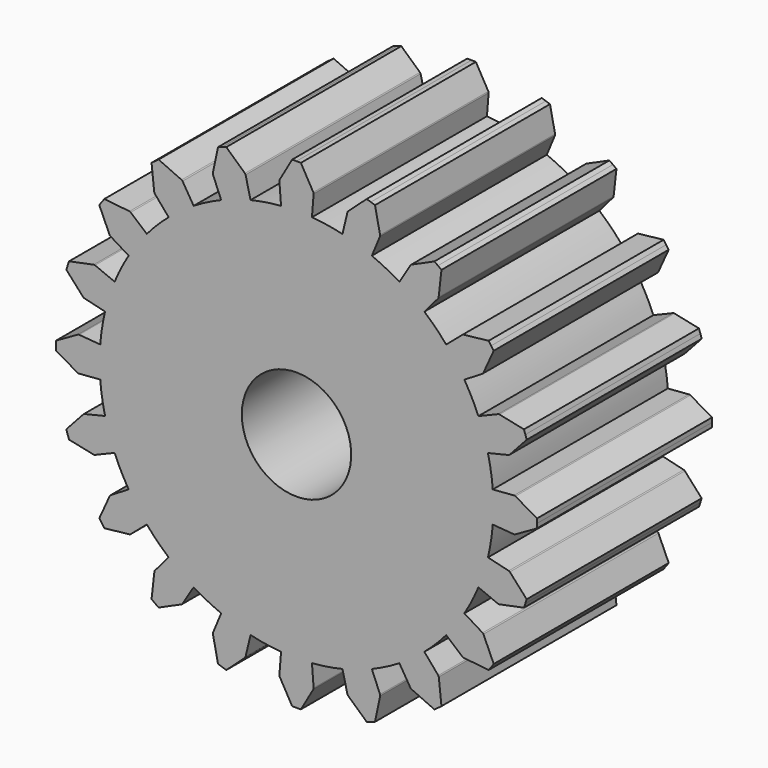
from build123d import *

# Parameters (mm, degrees)
F1_DEPTH = 5
F2_D     = 2.5


with BuildPart() as f1:
    # F0 (on Front) → F1 (new body)
    with BuildSketch(Plane.XZ):
        with BuildLine():
            ThreePointArc((4.486128, -0.353066), (4.496531, -0.176669), (4.5, 0))
            ThreePointArc((4.5, 0), (4.496531, 0.176669), (4.486128, 0.353066))
            ThreePointArc((4.486128, 0.353066), (4.444598, 0.703955), (4.375665, 1.050504))
            ThreePointArc((4.375665, 1.050504), (4.279754, 1.390576), (4.157458, 1.722075))
            ThreePointArc((4.157458, 1.722075), (4.009529, 2.042957), (3.836881, 2.351244))
            ThreePointArc((3.836881, 2.351244), (3.640576, 2.645034), (3.421827, 2.922516))
            ThreePointArc((3.421827, 2.922516), (3.181981, 3.181981), (2.922516, 3.421827))
            ThreePointArc((2.922516, 3.421827), (2.645034, 3.640576), (2.351244, 3.836881))
            ThreePointArc((2.351244, 3.836881), (2.042957, 4.009529), (1.722075, 4.157458))
            ThreePointArc((1.722075, 4.157458), (1.390576, 4.279754), (1.050504, 4.375665))
            ThreePointArc((1.050504, 4.375665), (0.703955, 4.444598), (0.353066, 4.486128))
            ThreePointArc((0.353066, 4.486128), (0, 4.5), (-0.353066, 4.486128))
            ThreePointArc((-0.353066, 4.486128), (-0.703955, 4.444598), (-1.050504, 4.375665))
            ThreePointArc((-1.050504, 4.375665), (-1.390576, 4.279754), (-1.722075, 4.157458))
            ThreePointArc((-1.722075, 4.157458), (-2.042957, 4.009529), (-2.351244, 3.836881))
            ThreePointArc((-2.351244, 3.836881), (-2.645034, 3.640576), (-2.922516, 3.421827))
            ThreePointArc((-2.922516, 3.421827), (-3.181981, 3.181981), (-3.421827, 2.922516))
            ThreePointArc((-3.421827, 2.922516), (-3.640576, 2.645034), (-3.836881, 2.351244))
            ThreePointArc((-3.836881, 2.351244), (-4.009529, 2.042957), (-4.157458, 1.722075))
            ThreePointArc((-4.157458, 1.722075), (-4.279754, 1.390576), (-4.375665, 1.050504))
            ThreePointArc((-4.375665, 1.050504), (-4.444598, 0.703955), (-4.486128, 0.353066))
            ThreePointArc((-4.486128, 0.353066), (-4.5, 0), (-4.486128, -0.353066))
            ThreePointArc((-4.486128, -0.353066), (-4.444598, -0.703955), (-4.375665, -1.050504))
            ThreePointArc((-4.375665, -1.050504), (-4.279754, -1.390576), (-4.157458, -1.722075))
            ThreePointArc((-4.157458, -1.722075), (-4.009529, -2.042957), (-3.836881, -2.351244))
            ThreePointArc((-3.836881, -2.351244), (-3.640576, -2.645034), (-3.421827, -2.922516))
            ThreePointArc((-3.421827, -2.922516), (-3.181981, -3.181981), (-2.922516, -3.421827))
            ThreePointArc((-2.922516, -3.421827), (-2.645034, -3.640576), (-2.351244, -3.836881))
            ThreePointArc((-2.351244, -3.836881), (-2.042957, -4.009529), (-1.722075, -4.157458))
            ThreePointArc((-1.722075, -4.157458), (-1.390576, -4.279754), (-1.050504, -4.375665))
            ThreePointArc((-1.050504, -4.375665), (-0.703955, -4.444598), (-0.353066, -4.486128))
            ThreePointArc((-0.353066, -4.486128), (0, -4.5), (0.353066, -4.486128))
            ThreePointArc((0.353066, -4.486128), (0.703955, -4.444598), (1.050504, -4.375665))
            ThreePointArc((1.050504, -4.375665), (1.390576, -4.279754), (1.722075, -4.157458))
            ThreePointArc((1.722075, -4.157458), (2.042957, -4.009529), (2.351244, -3.836881))
            ThreePointArc((2.351244, -3.836881), (2.645034, -3.640576), (2.922516, -3.421827))
            ThreePointArc((2.922516, -3.421827), (3.181981, -3.181981), (3.421827, -2.922516))
            ThreePointArc((3.421827, -2.922516), (3.640576, -2.645034), (3.836881, -2.351244))
            ThreePointArc((3.836881, -2.351244), (4.009529, -2.042957), (4.157458, -1.722075))
            ThreePointArc((4.157458, -1.722075), (4.279754, -1.390576), (4.375665, -1.050504))
            ThreePointArc((4.375665, -1.050504), (4.444598, -0.703955), (4.486128, -0.353066))
        make_face()
        with BuildLine():
            ThreePointArc((4.486128, 0.353066), (4.496531, 0.176669), (4.5, 0))
            ThreePointArc((4.5, 0), (4.496531, -0.176669), (4.486128, -0.353066))
            Line((4.486128, -0.353066), (4.969299, -0.391092))
            ThreePointArc((4.969299, -0.391092), (4.984087, -0.390052), (4.99792, -0.384721))
            Line((4.99792, -0.384721), (5.499091, -0.1))
            ThreePointArc((5.499091, -0.1), (5.499773, -0.050002), (5.5, 0))
            ThreePointArc((5.5, 0), (5.499773, 0.050002), (5.499091, 0.1))
            Line((5.499091, 0.1), (5.002593, 0.384964))
            ThreePointArc((5.002593, 0.384964), (4.988676, 0.39038), (4.973781, 0.391445))
            Line((4.973781, 0.391445), (4.486128, 0.353066))
        make_face()
        with BuildLine():
            ThreePointArc((4.157458, 1.722075), (4.279754, 1.390576), (4.375665, 1.050504))
            Line((4.375665, 1.050504), (4.846938, 1.163647))
            ThreePointArc((4.846938, 1.163647), (4.860681, 1.169206), (4.87219, 1.178551))
            Line((4.87219, 1.178551), (5.260848, 1.604207))
            ThreePointArc((5.260848, 1.604207), (5.246046, 1.651968), (5.230811, 1.699593))
            ThreePointArc((5.230811, 1.699593), (5.215143, 1.747078), (5.199044, 1.794418))
            Line((5.199044, 1.794418), (4.638788, 1.912009))
            ThreePointArc((4.638788, 1.912009), (4.623879, 1.91286), (4.609383, 1.909269))
            Line((4.609383, 1.909269), (4.157458, 1.722075))
        make_face()
        with BuildLine():
            Line((4.85131, -1.164696), (4.375665, -1.050504))
            ThreePointArc((4.375665, -1.050504), (4.279754, -1.390576), (4.157458, -1.722075))
            Line((4.157458, -1.722075), (4.60523, -1.907549))
            ThreePointArc((4.60523, -1.907549), (4.619616, -1.911129), (4.634419, -1.910333))
            Line((4.634419, -1.910333), (5.199044, -1.794418))
            ThreePointArc((5.199044, -1.794418), (5.215143, -1.747078), (5.230811, -1.699593))
            ThreePointArc((5.230811, -1.699593), (5.246046, -1.651968), (5.260848, -1.604207))
            Line((5.260848, -1.604207), (4.876709, -1.179764))
            ThreePointArc((4.876709, -1.179764), (4.865147, -1.170312), (4.85131, -1.164696))
        make_face()
        with BuildLine():
            ThreePointArc((3.421827, 2.922516), (3.640576, 2.645034), (3.836881, 2.351244))
            Line((3.836881, 2.351244), (4.250126, 2.60448))
            ThreePointArc((4.250126, 2.60448), (4.261478, 2.614015), (4.269535, 2.626458))
            Line((4.269535, 2.626458), (4.507636, 3.151383))
            ThreePointArc((4.507636, 3.151383), (4.4788, 3.192233), (4.449593, 3.232819))
            ThreePointArc((4.449593, 3.232819), (4.420019, 3.273138), (4.390079, 3.313186))
            Line((4.390079, 3.313186), (3.820906, 3.251893))
            ThreePointArc((3.820906, 3.251893), (3.806464, 3.248095), (3.793788, 3.240201))
            Line((3.793788, 3.240201), (3.421827, 2.922516))
        make_face()
        with BuildLine():
            Line((4.253959, -2.606829), (3.836881, -2.351244))
            ThreePointArc((3.836881, -2.351244), (3.640576, -2.645034), (3.421827, -2.922516))
            Line((3.421827, -2.922516), (3.790369, -3.237281))
            ThreePointArc((3.790369, -3.237281), (3.802945, -3.245131), (3.817269, -3.248949))
            Line((3.817269, -3.248949), (4.390079, -3.313186))
            ThreePointArc((4.390079, -3.313186), (4.420019, -3.273138), (4.449593, -3.232819))
            ThreePointArc((4.449593, -3.232819), (4.4788, -3.192233), (4.507636, -3.151383))
            Line((4.507636, -3.151383), (4.273459, -2.629008))
            ThreePointArc((4.273459, -2.629008), (4.265384, -2.616446), (4.253959, -2.606829))
        make_face()
        with BuildLine():
            ThreePointArc((2.351244, 3.836881), (2.645034, 3.640576), (2.922516, 3.421827))
            Line((2.922516, 3.421827), (3.237281, 3.790369))
            ThreePointArc((3.237281, 3.790369), (3.245131, 3.802945), (3.248949, 3.817269))
            Line((3.248949, 3.817269), (3.313186, 4.390079))
            ThreePointArc((3.313186, 4.390079), (3.273138, 4.420019), (3.232819, 4.449593))
            ThreePointArc((3.232819, 4.449593), (3.192233, 4.4788), (3.151383, 4.507636))
            Line((3.151383, 4.507636), (2.629008, 4.273459))
            ThreePointArc((2.629008, 4.273459), (2.616446, 4.265384), (2.606829, 4.253959))
            Line((2.606829, 4.253959), (2.351244, 3.836881))
        make_face()
        with BuildLine():
            Line((3.240201, -3.793788), (2.922516, -3.421827))
            ThreePointArc((2.922516, -3.421827), (2.645034, -3.640576), (2.351244, -3.836881))
            Line((2.351244, -3.836881), (2.60448, -4.250126))
            ThreePointArc((2.60448, -4.250126), (2.614015, -4.261478), (2.626458, -4.269535))
            Line((2.626458, -4.269535), (3.151383, -4.507636))
            ThreePointArc((3.151383, -4.507636), (3.192233, -4.4788), (3.232819, -4.449593))
            ThreePointArc((3.232819, -4.449593), (3.273138, -4.420019), (3.313186, -4.390079))
            Line((3.313186, -4.390079), (3.251893, -3.820906))
            ThreePointArc((3.251893, -3.820906), (3.248095, -3.806464), (3.240201, -3.793788))
        make_face()
        with BuildLine():
            ThreePointArc((1.050504, 4.375665), (1.390576, 4.279754), (1.722075, 4.157458))
            Line((1.722075, 4.157458), (1.907549, 4.60523))
            ThreePointArc((1.907549, 4.60523), (1.911129, 4.619616), (1.910333, 4.634419))
            Line((1.910333, 4.634419), (1.794418, 5.199044))
            ThreePointArc((1.794418, 5.199044), (1.747078, 5.215143), (1.699593, 5.230811))
            ThreePointArc((1.699593, 5.230811), (1.651968, 5.246046), (1.604207, 5.260848))
            Line((1.604207, 5.260848), (1.179764, 4.876709))
            ThreePointArc((1.179764, 4.876709), (1.170312, 4.865147), (1.164696, 4.85131))
            Line((1.164696, 4.85131), (1.050504, 4.375665))
        make_face()
        with BuildLine():
            Line((1.909269, -4.609383), (1.722075, -4.157458))
            ThreePointArc((1.722075, -4.157458), (1.390576, -4.279754), (1.050504, -4.375665))
            Line((1.050504, -4.375665), (1.163647, -4.846938))
            ThreePointArc((1.163647, -4.846938), (1.169206, -4.860681), (1.178551, -4.87219))
            Line((1.178551, -4.87219), (1.604207, -5.260848))
            ThreePointArc((1.604207, -5.260848), (1.651968, -5.246046), (1.699593, -5.230811))
            ThreePointArc((1.699593, -5.230811), (1.747078, -5.215143), (1.794418, -5.199044))
            Line((1.794418, -5.199044), (1.912009, -4.638788))
            ThreePointArc((1.912009, -4.638788), (1.91286, -4.623879), (1.909269, -4.609383))
        make_face()
        with BuildLine():
            ThreePointArc((-0.353066, 4.486128), (0, 4.5), (0.353066, 4.486128))
            Line((0.353066, 4.486128), (0.391092, 4.969299))
            ThreePointArc((0.391092, 4.969299), (0.390052, 4.984087), (0.384721, 4.99792))
            Line((0.384721, 4.99792), (0.1, 5.499091))
            ThreePointArc((0.1, 5.499091), (0.050002, 5.499773), (0, 5.5))
            ThreePointArc((0, 5.5), (-0.050002, 5.499773), (-0.1, 5.499091))
            Line((-0.1, 5.499091), (-0.384964, 5.002593))
            ThreePointArc((-0.384964, 5.002593), (-0.39038, 4.988676), (-0.391445, 4.973781))
            Line((-0.391445, 4.973781), (-0.353066, 4.486128))
        make_face()
        with BuildLine():
            Line((0.391445, -4.973781), (0.353066, -4.486128))
            ThreePointArc((0.353066, -4.486128), (0, -4.5), (-0.353066, -4.486128))
            Line((-0.353066, -4.486128), (-0.391092, -4.969299))
            ThreePointArc((-0.391092, -4.969299), (-0.390052, -4.984087), (-0.384721, -4.99792))
            Line((-0.384721, -4.99792), (-0.1, -5.499091))
            ThreePointArc((-0.1, -5.499091), (-0.050002, -5.499773), (0, -5.5))
            ThreePointArc((0, -5.5), (0.050002, -5.499773), (0.1, -5.499091))
            Line((0.1, -5.499091), (0.384964, -5.002593))
            ThreePointArc((0.384964, -5.002593), (0.39038, -4.988676), (0.391445, -4.973781))
        make_face()
        with BuildLine():
            ThreePointArc((-1.722075, 4.157458), (-1.390576, 4.279754), (-1.050504, 4.375665))
            Line((-1.050504, 4.375665), (-1.163647, 4.846938))
            ThreePointArc((-1.163647, 4.846938), (-1.169206, 4.860681), (-1.178551, 4.87219))
            Line((-1.178551, 4.87219), (-1.604207, 5.260848))
            ThreePointArc((-1.604207, 5.260848), (-1.651968, 5.246046), (-1.699593, 5.230811))
            ThreePointArc((-1.699593, 5.230811), (-1.747078, 5.215143), (-1.794418, 5.199044))
            Line((-1.794418, 5.199044), (-1.912009, 4.638788))
            ThreePointArc((-1.912009, 4.638788), (-1.91286, 4.623879), (-1.909269, 4.609383))
            Line((-1.909269, 4.609383), (-1.722075, 4.157458))
        make_face()
        with BuildLine():
            Line((-1.164696, -4.85131), (-1.050504, -4.375665))
            ThreePointArc((-1.050504, -4.375665), (-1.390576, -4.279754), (-1.722075, -4.157458))
            Line((-1.722075, -4.157458), (-1.907549, -4.60523))
            ThreePointArc((-1.907549, -4.60523), (-1.911129, -4.619616), (-1.910333, -4.634419))
            Line((-1.910333, -4.634419), (-1.794418, -5.199044))
            ThreePointArc((-1.794418, -5.199044), (-1.747078, -5.215143), (-1.699593, -5.230811))
            ThreePointArc((-1.699593, -5.230811), (-1.651968, -5.246046), (-1.604207, -5.260848))
            Line((-1.604207, -5.260848), (-1.179764, -4.876709))
            ThreePointArc((-1.179764, -4.876709), (-1.170312, -4.865147), (-1.164696, -4.85131))
        make_face()
        with BuildLine():
            ThreePointArc((-2.922516, 3.421827), (-2.645034, 3.640576), (-2.351244, 3.836881))
            Line((-2.351244, 3.836881), (-2.60448, 4.250126))
            ThreePointArc((-2.60448, 4.250126), (-2.614015, 4.261478), (-2.626458, 4.269535))
            Line((-2.626458, 4.269535), (-3.151383, 4.507636))
            ThreePointArc((-3.151383, 4.507636), (-3.192233, 4.4788), (-3.232819, 4.449593))
            ThreePointArc((-3.232819, 4.449593), (-3.273138, 4.420019), (-3.313186, 4.390079))
            Line((-3.313186, 4.390079), (-3.251893, 3.820906))
            ThreePointArc((-3.251893, 3.820906), (-3.248095, 3.806464), (-3.240201, 3.793788))
            Line((-3.240201, 3.793788), (-2.922516, 3.421827))
        make_face()
        with BuildLine():
            Line((-2.606829, -4.253959), (-2.351244, -3.836881))
            ThreePointArc((-2.351244, -3.836881), (-2.645034, -3.640576), (-2.922516, -3.421827))
            Line((-2.922516, -3.421827), (-3.237281, -3.790369))
            ThreePointArc((-3.237281, -3.790369), (-3.245131, -3.802945), (-3.248949, -3.817269))
            Line((-3.248949, -3.817269), (-3.313186, -4.390079))
            ThreePointArc((-3.313186, -4.390079), (-3.273138, -4.420019), (-3.232819, -4.449593))
            ThreePointArc((-3.232819, -4.449593), (-3.192233, -4.4788), (-3.151383, -4.507636))
            Line((-3.151383, -4.507636), (-2.629008, -4.273459))
            ThreePointArc((-2.629008, -4.273459), (-2.616446, -4.265384), (-2.606829, -4.253959))
        make_face()
        with BuildLine():
            ThreePointArc((-3.836881, 2.351244), (-3.640576, 2.645034), (-3.421827, 2.922516))
            Line((-3.421827, 2.922516), (-3.790369, 3.237281))
            ThreePointArc((-3.790369, 3.237281), (-3.802945, 3.245131), (-3.817269, 3.248949))
            Line((-3.817269, 3.248949), (-4.390079, 3.313186))
            ThreePointArc((-4.390079, 3.313186), (-4.420019, 3.273138), (-4.449593, 3.232819))
            ThreePointArc((-4.449593, 3.232819), (-4.4788, 3.192233), (-4.507636, 3.151383))
            Line((-4.507636, 3.151383), (-4.273459, 2.629008))
            ThreePointArc((-4.273459, 2.629008), (-4.265384, 2.616446), (-4.253959, 2.606829))
            Line((-4.253959, 2.606829), (-3.836881, 2.351244))
        make_face()
        with BuildLine():
            Line((-3.793788, -3.240201), (-3.421827, -2.922516))
            ThreePointArc((-3.421827, -2.922516), (-3.640576, -2.645034), (-3.836881, -2.351244))
            Line((-3.836881, -2.351244), (-4.250126, -2.60448))
            ThreePointArc((-4.250126, -2.60448), (-4.261478, -2.614015), (-4.269535, -2.626458))
            Line((-4.269535, -2.626458), (-4.507636, -3.151383))
            ThreePointArc((-4.507636, -3.151383), (-4.4788, -3.192233), (-4.449593, -3.232819))
            ThreePointArc((-4.449593, -3.232819), (-4.420019, -3.273138), (-4.390079, -3.313186))
            Line((-4.390079, -3.313186), (-3.820906, -3.251893))
            ThreePointArc((-3.820906, -3.251893), (-3.806464, -3.248095), (-3.793788, -3.240201))
        make_face()
        with BuildLine():
            ThreePointArc((-4.375665, 1.050504), (-4.279754, 1.390576), (-4.157458, 1.722075))
            Line((-4.157458, 1.722075), (-4.60523, 1.907549))
            ThreePointArc((-4.60523, 1.907549), (-4.619616, 1.911129), (-4.634419, 1.910333))
            Line((-4.634419, 1.910333), (-5.199044, 1.794418))
            ThreePointArc((-5.199044, 1.794418), (-5.215143, 1.747078), (-5.230811, 1.699593))
            ThreePointArc((-5.230811, 1.699593), (-5.246046, 1.651968), (-5.260848, 1.604207))
            Line((-5.260848, 1.604207), (-4.876709, 1.179764))
            ThreePointArc((-4.876709, 1.179764), (-4.865147, 1.170312), (-4.85131, 1.164696))
            Line((-4.85131, 1.164696), (-4.375665, 1.050504))
        make_face()
        with BuildLine():
            Line((-4.609383, -1.909269), (-4.157458, -1.722075))
            ThreePointArc((-4.157458, -1.722075), (-4.279754, -1.390576), (-4.375665, -1.050504))
            Line((-4.375665, -1.050504), (-4.846938, -1.163647))
            ThreePointArc((-4.846938, -1.163647), (-4.860681, -1.169206), (-4.87219, -1.178551))
            Line((-4.87219, -1.178551), (-5.260848, -1.604207))
            ThreePointArc((-5.260848, -1.604207), (-5.246046, -1.651968), (-5.230811, -1.699593))
            ThreePointArc((-5.230811, -1.699593), (-5.215143, -1.747078), (-5.199044, -1.794418))
            Line((-5.199044, -1.794418), (-4.638788, -1.912009))
            ThreePointArc((-4.638788, -1.912009), (-4.623879, -1.91286), (-4.609383, -1.909269))
        make_face()
        with BuildLine():
            ThreePointArc((-4.486128, -0.353066), (-4.5, 0), (-4.486128, 0.353066))
            Line((-4.486128, 0.353066), (-4.969299, 0.391092))
            ThreePointArc((-4.969299, 0.391092), (-4.984087, 0.390052), (-4.99792, 0.384721))
            Line((-4.99792, 0.384721), (-5.499091, 0.1))
            ThreePointArc((-5.499091, 0.1), (-5.499773, 0.050002), (-5.5, 0))
            ThreePointArc((-5.5, 0), (-5.499773, -0.050002), (-5.499091, -0.1))
            Line((-5.499091, -0.1), (-5.002593, -0.384964))
            ThreePointArc((-5.002593, -0.384964), (-4.988676, -0.39038), (-4.973781, -0.391445))
            Line((-4.973781, -0.391445), (-4.486128, -0.353066))
        make_face()
    extrude(amount=F1_DEPTH)

    # F2 (through all)
    with Locations(Plane(origin=(0, 0, 0), x_dir=(1, 0, 0), z_dir=(0, 1, 0))):
        with Locations((0, 0)):
            Hole(F2_D / 2)


solid = f1.part
